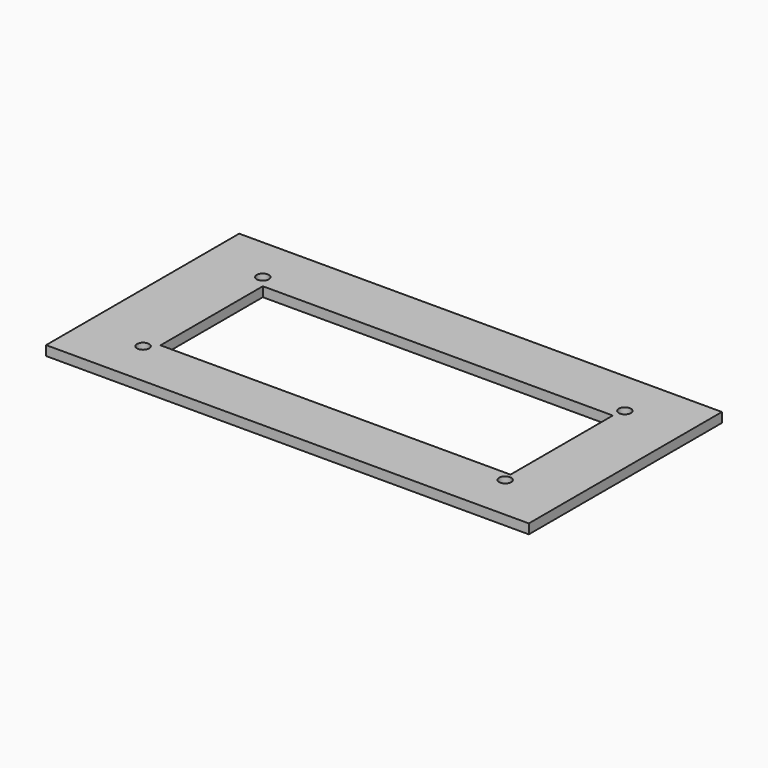
from build123d import *

# Parameters (mm, degrees)
F0_W     = 100
F0_H     = 50
F0_W_2   = 72.5
F0_H_2   = 26.5
F1_DEPTH = 2
F2_D     = 2.5


with BuildPart() as f1:
    # F0 (on Top) → F1 (new body)
    with BuildSketch(Plane.XY):
        Rectangle(F0_W, F0_H)
        with Locations((0.75, -0.25)):
            Rectangle(F0_W_2, F0_H_2, mode=Mode.SUBTRACT)
    extrude(amount=F1_DEPTH)

    # F2 (through all)
    with Locations(Plane(origin=(0, 0, 0), x_dir=(1, 0, 0), z_dir=(0, 0, -1))):
        with Locations((-37.5, -15.5), (-37.5, 15.5), (37.5, 15.5), (37.5, -15.5)):
            Hole(F2_D / 2)


solid = f1.part
